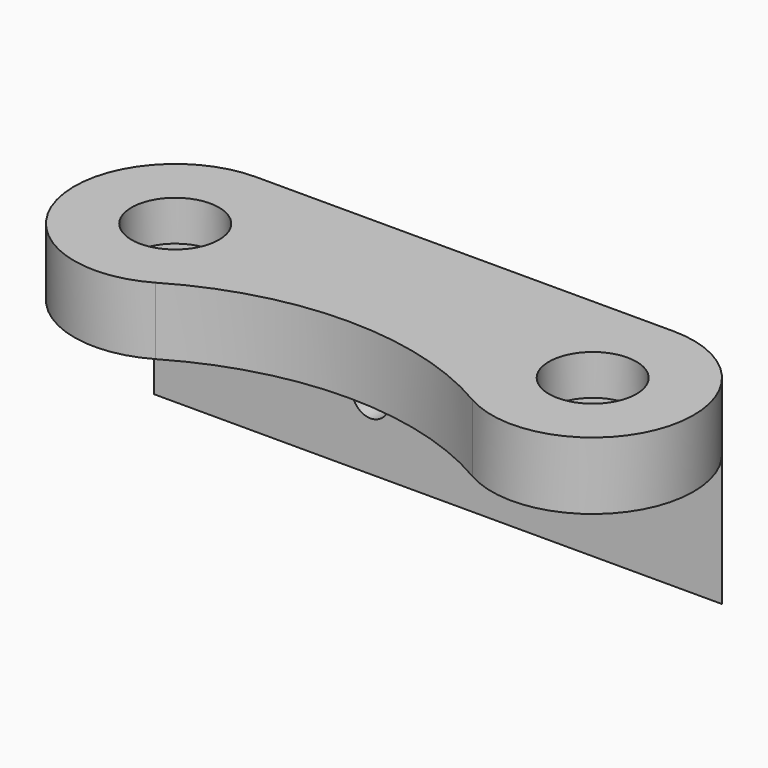
from build123d import *

# Parameters (mm, degrees)
SKETCH021_R     = 1.7
PAD003_DEPTH    = 15
SKETCH022_W     = 13
SKETCH022_H     = 11
POCKET018_DEPTH = 208.501
SKETCH023_R     = 1.35
POCKET019_DEPTH = 175.001
SKETCH024_R     = 3.25
POCKET020_DEPTH = 3


with BuildPart() as part:
    # Sketch021 → Pad003 (new body)
    with BuildSketch(Plane.XY):
        with BuildLine():
            ThreePointArc((170, -160), (162.754312, -169.436492), (173.741657, -174))
            ThreePointArc((197.258343, -174), (185.5, -170.799599), (173.741657, -174))
            ThreePointArc((197.258343, -174), (208.245688, -169.436492), (201, -160))
            Line((170, -160), (201, -160))
        make_face()
        with Locations((170, -167.5)):
            Circle(SKETCH021_R, mode=Mode.SUBTRACT)
        with Locations((201, -167.5)):
            Circle(SKETCH021_R, mode=Mode.SUBTRACT)
    extrude(amount=-PAD003_DEPTH)

    # Sketch022 → Pocket018 (cut, through all)
    with BuildSketch(Plane.YZ):
        with Locations((-169, -10.5)):
            Rectangle(SKETCH022_W, SKETCH022_H)
    extrude(amount=POCKET018_DEPTH, mode=Mode.SUBTRACT)

    # Sketch023 → Pocket019 (cut, through all)
    with BuildSketch(Plane.XZ):
        with Locations((180.5, -10)):
            Circle(SKETCH023_R)
        with Locations((190.5, -10)):
            Circle(SKETCH023_R)
    extrude(amount=POCKET019_DEPTH, mode=Mode.SUBTRACT)

    # Sketch024 → Pocket020 (cut)
    with BuildSketch(Plane.XY):
        with Locations((170, -167.5)):
            Circle(SKETCH024_R)
        with Locations((201, -167.5)):
            Circle(SKETCH024_R)
    extrude(amount=-POCKET020_DEPTH, mode=Mode.SUBTRACT)


with BuildPart() as part_1:
    # Body003 placement: moved
    add(part.part.moved(Location((1, 1, -22))))


solid = part_1.part
